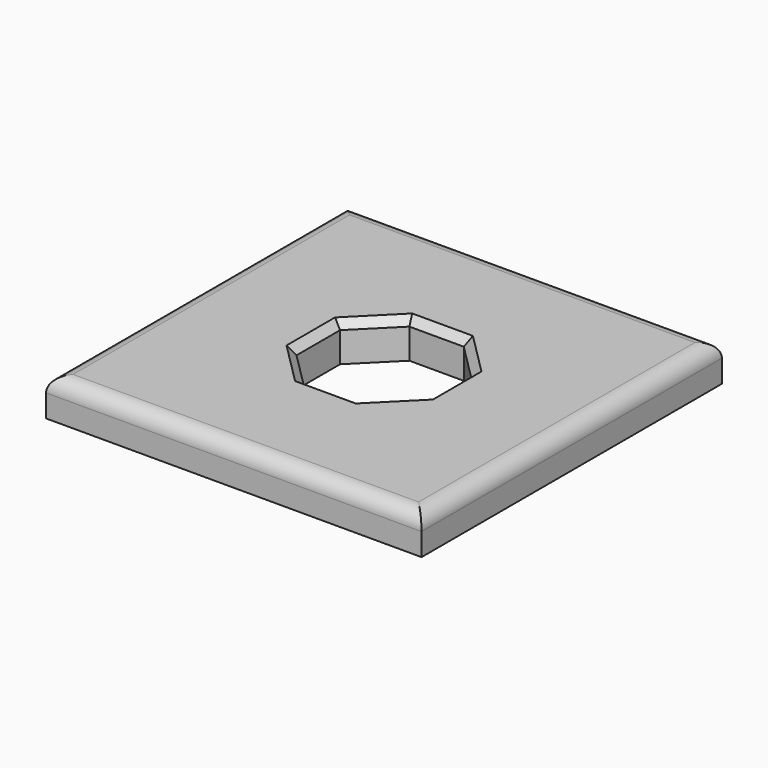
from build123d import *

# Parameters (mm, degrees)
F0_W     = 100
F0_H     = 100
F1_DEPTH = 10
F2_SIZE  = 2
F3_R     = 4


with BuildPart() as f1:
    # F0 (on Top) → F1 (new body)
    with BuildSketch(Plane.XY):
        Rectangle(F0_W, F0_H)
        Polygon((-17.5, 7.248737), (-7.248737, 17.5), (7.248737, 17.5), (17.5, 7.248737), (17.5, -7.248737), (7.248737, -17.5), (-7.248737, -17.5), (-17.5, -7.248737), align=None, mode=Mode.SUBTRACT)
    extrude(amount=F1_DEPTH)

    # F2
    f2_edges = [f1.edges().sort_by_distance(p)[0] for p in [
        (0, 17.5, 10),
        (12.374369, 12.374369, 10),
        (17.5, 0, 10),
        (12.374369, -12.374369, 10),
        (0, -17.5, 10),
        (-12.374369, -12.374369, 10),
        (-17.5, 0, 10),
        (-12.374369, 12.374369, 10),
    ]]
    chamfer(f2_edges, length=F2_SIZE)

    # F3
    f3_edges = [f1.edges().sort_by_distance(p)[0] for p in [
        (0, 50, 10),
        (50, 0, 10),
        (-50, 0, 10),
        (0, -50, 10),
    ]]
    fillet(f3_edges, radius=F3_R)


solid = f1.part
